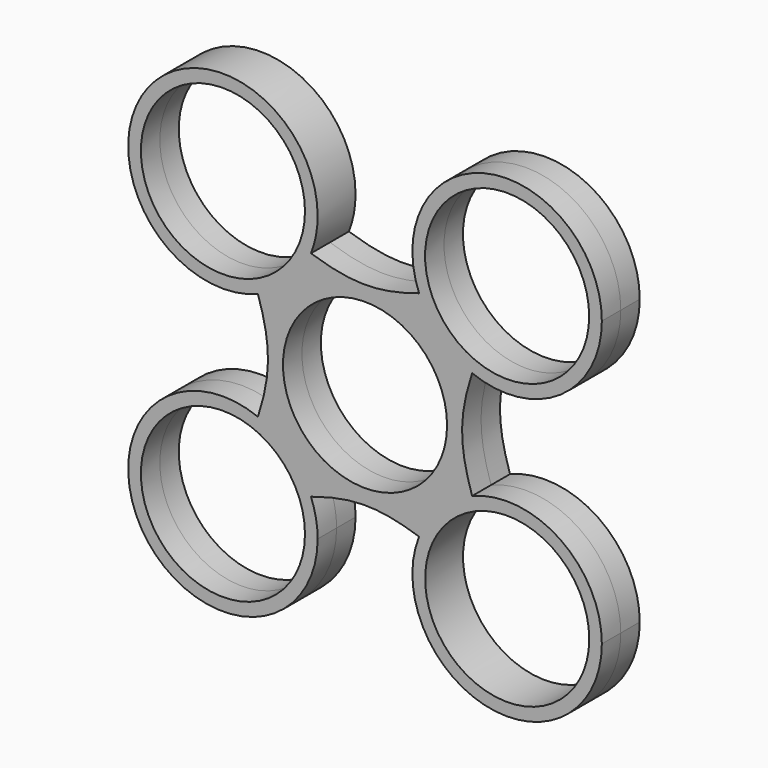
from build123d import *

# Parameters (mm, degrees)
F0_R     = 11
F2_DEPTH = 3.175
F1_R     = 11
F3_DEPTH = 12.7


with BuildPart() as f2:
    # F0 (on Front) → F2 (new body, symmetric)
    with BuildSketch(Plane.XZ):
        with BuildLine():
            ThreePointArc((-7.2482056801, 14.3587687297), (-6.5765724866, 16.6617776341), (-6.35, 19.05))
            ThreePointArc((-6.35, 19.05), (-29.5587734092, 26.1813169495), (-14.3587687297, 7.2482056801))
            add(Edge.make_bspline(
                [(-14.3587687297, 7.2482056801), (-15.3619108037, 10.3222858149), (-16.9256545604, 14.0228222828), (-19.05, 19.05)],
                knots=[28.0456445655, 28.0456445655, 28.0456445655, 28.0456445655, 38.1, 38.1, 38.1, 38.1], degree=3))
            add(Edge.make_bspline(
                [(-19.05, 19.05), (-14.0228222828, 16.9256545604), (-10.3222858149, 15.3619108037), (-7.2482056801, 14.3587687297)],
                knots=[0, 0, 0, 0, 10.0543554345, 10.0543554345, 10.0543554345, 10.0543554345], degree=3))
        make_face()
        with BuildLine():
            add(Edge.make_bspline(
                [(-14.3587687297, 7.2482056801), (-15.3619108037, 10.3222858149), (-16.9256545604, 14.0228222828), (-19.05, 19.05)],
                knots=[28.0456445655, 28.0456445655, 28.0456445655, 28.0456445655, 38.1, 38.1, 38.1, 38.1], degree=3))
            ThreePointArc((-14.3587687297, 7.2482056801), (-10.0697438789, 10.0697438789), (-7.2482056801, 14.3587687297))
            add(Edge.make_bspline(
                [(-19.05, 19.05), (-14.0228222828, 16.9256545604), (-10.3222858149, 15.3619108037), (-7.2482056801, 14.3587687297)],
                knots=[0, 0, 0, 0, 10.0543554345, 10.0543554345, 10.0543554345, 10.0543554345], degree=3))
        make_face()
        with BuildLine():
            ThreePointArc((-7.2482056801, 14.3587687297), (-10.0697438789, 10.0697438789), (-14.3587687297, 7.2482056801))
            add(Edge.make_bspline(
                [(-14.3587687297, -7.2482056801), (-12.5637437568, -1.7474388854), (-12.5637437568, 1.7474388854), (-14.3587687297, 7.2482056801)],
                knots=[10.0543554345, 10.0543554345, 10.0543554345, 10.0543554345, 28.0456445655, 28.0456445655, 28.0456445655, 28.0456445655], degree=3))
            ThreePointArc((-14.3587687297, -7.2482056801), (-10.0697438789, -10.0697438789), (-7.2482056801, -14.3587687297))
            add(Edge.make_bspline(
                [(-7.2482056801, -14.3587687297), (-1.7474388854, -12.5637437568), (1.7474388854, -12.5637437568), (7.2482056801, -14.3587687297)],
                knots=[10.0543554345, 10.0543554345, 10.0543554345, 10.0543554345, 28.0456445655, 28.0456445655, 28.0456445655, 28.0456445655], degree=3))
            ThreePointArc((7.2482056801, -14.3587687297), (10.0697438789, -10.0697438789), (14.3587687297, -7.2482056801))
            add(Edge.make_bspline(
                [(14.3587687297, 7.2482056801), (12.5637437568, 1.7474388854), (12.5637437568, -1.7474388854), (14.3587687297, -7.2482056801)],
                knots=[10.0543554345, 10.0543554345, 10.0543554345, 10.0543554345, 28.0456445655, 28.0456445655, 28.0456445655, 28.0456445655], degree=3))
            ThreePointArc((14.3587687297, 7.2482056801), (10.0697438789, 10.0697438789), (7.2482056801, 14.3587687297))
            add(Edge.make_bspline(
                [(-7.2482056801, 14.3587687297), (-1.7474388854, 12.5637437568), (1.7474388854, 12.5637437568), (7.2482056801, 14.3587687297)],
                knots=[10.0543554345, 10.0543554345, 10.0543554345, 10.0543554345, 28.0456445655, 28.0456445655, 28.0456445655, 28.0456445655], degree=3))
        make_face()
        Circle(F0_R, mode=Mode.SUBTRACT)
        with BuildLine():
            add(Edge.make_bspline(
                [(-19.05, -19.05), (-16.9256545604, -14.0228222828), (-15.3619108037, -10.3222858149), (-14.3587687297, -7.2482056801)],
                knots=[0, 0, 0, 0, 10.0543554345, 10.0543554345, 10.0543554345, 10.0543554345], degree=3))
            ThreePointArc((-14.3587687297, -7.2482056801), (-29.5587734092, -26.1813169495), (-6.35, -19.05))
            ThreePointArc((-6.35, -19.05), (-6.5765724866, -16.6617776341), (-7.2482056801, -14.3587687297))
            add(Edge.make_bspline(
                [(-19.05, -19.05), (-14.0228222828, -16.9256545604), (-10.3222858149, -15.3619108037), (-7.2482056801, -14.3587687297)],
                knots=[0, 0, 0, 0, 10.0543554345, 10.0543554345, 10.0543554345, 10.0543554345], degree=3))
        make_face()
        with BuildLine():
            ThreePointArc((-7.2482056801, -14.3587687297), (-10.0697438789, -10.0697438789), (-14.3587687297, -7.2482056801))
            add(Edge.make_bspline(
                [(-19.05, -19.05), (-16.9256545604, -14.0228222828), (-15.3619108037, -10.3222858149), (-14.3587687297, -7.2482056801)],
                knots=[0, 0, 0, 0, 10.0543554345, 10.0543554345, 10.0543554345, 10.0543554345], degree=3))
            add(Edge.make_bspline(
                [(-19.05, -19.05), (-14.0228222828, -16.9256545604), (-10.3222858149, -15.3619108037), (-7.2482056801, -14.3587687297)],
                knots=[0, 0, 0, 0, 10.0543554345, 10.0543554345, 10.0543554345, 10.0543554345], degree=3))
        make_face()
        with BuildLine():
            add(Edge.make_bspline(
                [(7.2482056801, 14.3587687297), (10.3222858149, 15.3619108037), (14.0228222828, 16.9256545604), (19.05, 19.05)],
                knots=[28.0456445655, 28.0456445655, 28.0456445655, 28.0456445655, 38.1, 38.1, 38.1, 38.1], degree=3))
            ThreePointArc((7.2482056801, 14.3587687297), (10.0697438789, 10.0697438789), (14.3587687297, 7.2482056801))
            add(Edge.make_bspline(
                [(19.05, 19.05), (16.9256545604, 14.0228222828), (15.3619108037, 10.3222858149), (14.3587687297, 7.2482056801)],
                knots=[0, 0, 0, 0, 10.0543554345, 10.0543554345, 10.0543554345, 10.0543554345], degree=3))
        make_face()
        with BuildLine():
            ThreePointArc((31.75, 19.05), (16.6617776341, 31.5234275134), (7.2482056801, 14.3587687297))
            add(Edge.make_bspline(
                [(7.2482056801, 14.3587687297), (10.3222858149, 15.3619108037), (14.0228222828, 16.9256545604), (19.05, 19.05)],
                knots=[28.0456445655, 28.0456445655, 28.0456445655, 28.0456445655, 38.1, 38.1, 38.1, 38.1], degree=3))
            add(Edge.make_bspline(
                [(19.05, 19.05), (16.9256545604, 14.0228222828), (15.3619108037, 10.3222858149), (14.3587687297, 7.2482056801)],
                knots=[0, 0, 0, 0, 10.0543554345, 10.0543554345, 10.0543554345, 10.0543554345], degree=3))
            ThreePointArc((14.3587687297, 7.2482056801), (26.1813169495, 8.5412265908), (31.75, 19.05))
        make_face()
        with BuildLine():
            add(Edge.make_bspline(
                [(7.2482056801, -14.3587687297), (10.3222858149, -15.3619108037), (14.0228222828, -16.9256545604), (19.05, -19.05)],
                knots=[28.0456445655, 28.0456445655, 28.0456445655, 28.0456445655, 38.1, 38.1, 38.1, 38.1], degree=3))
            ThreePointArc((7.2482056801, -14.3587687297), (16.6617776341, -31.5234275134), (31.75, -19.05))
            ThreePointArc((31.75, -19.05), (26.1813169495, -8.5412265908), (14.3587687297, -7.2482056801))
            add(Edge.make_bspline(
                [(14.3587687297, -7.2482056801), (15.3619108037, -10.3222858149), (16.9256545604, -14.0228222828), (19.05, -19.05)],
                knots=[28.0456445655, 28.0456445655, 28.0456445655, 28.0456445655, 38.1, 38.1, 38.1, 38.1], degree=3))
        make_face()
        with BuildLine():
            ThreePointArc((14.3587687297, -7.2482056801), (10.0697438789, -10.0697438789), (7.2482056801, -14.3587687297))
            add(Edge.make_bspline(
                [(7.2482056801, -14.3587687297), (10.3222858149, -15.3619108037), (14.0228222828, -16.9256545604), (19.05, -19.05)],
                knots=[28.0456445655, 28.0456445655, 28.0456445655, 28.0456445655, 38.1, 38.1, 38.1, 38.1], degree=3))
            add(Edge.make_bspline(
                [(14.3587687297, -7.2482056801), (15.3619108037, -10.3222858149), (16.9256545604, -14.0228222828), (19.05, -19.05)],
                knots=[28.0456445655, 28.0456445655, 28.0456445655, 28.0456445655, 38.1, 38.1, 38.1, 38.1], degree=3))
        make_face()
    extrude(amount=F2_DEPTH, both=True)

    # F1 (on Front) → F3 (cut, symmetric)
    with BuildSketch(Plane.XZ):
        with Locations((-19.0500058234, 19.0502889454)):
            Circle(F1_R)
        with Locations((19.0496798605, 19.0498717129)):
            Circle(F1_R)
        with Locations((-19.0505106002, -19.0498437732)):
            Circle(F1_R)
        with Locations((19.0585404634, -19.0461371094)):
            Circle(F1_R)
    extrude(amount=F3_DEPTH, both=True, mode=Mode.SUBTRACT)


solid = f2.part
